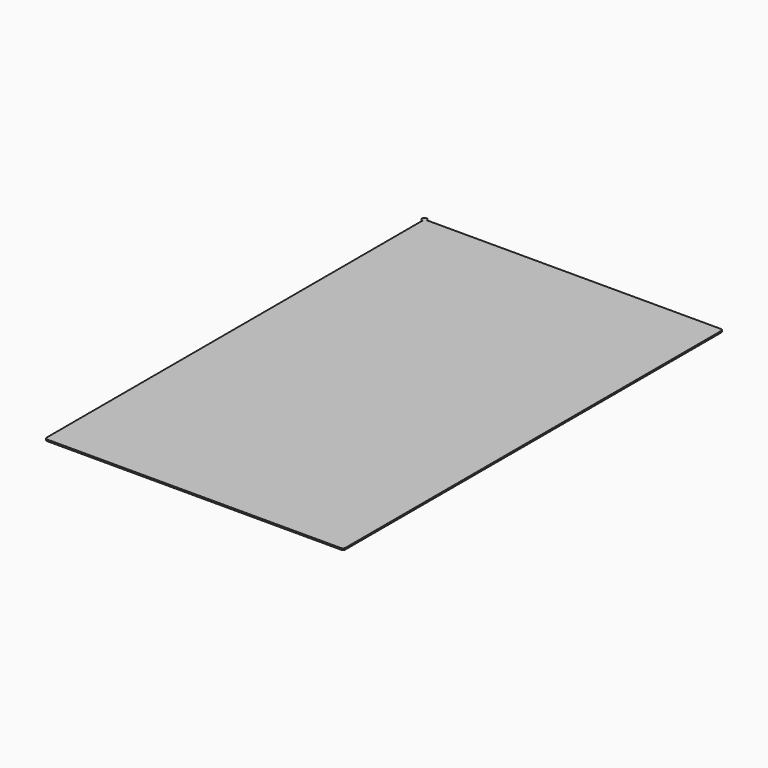
from build123d import *

# Parameters (mm, degrees)
CYLINDER_R     = 0.5
CYLINDER_DEPTH = 0.3
BOX003_W       = 60.4
BOX003_H       = 96
BOX003_DEPTH   = 0.3
FILLET001_R    = 0.5
FILLET002_R    = 0.5
FILLET003_R    = 0.5
FILLET004_R    = 0.5


with BuildPart() as cylinder:
    # Cylinder → Cylinder (new body)
    with BuildSketch(Plane(origin=(-7, -5, 10.6), x_dir=(1, 0, 0), z_dir=(0, 0, 1))):
        Circle(CYLINDER_R)
    extrude(amount=CYLINDER_DEPTH)


with BuildPart() as fusion:
    # Box003 → Box003 (new body)
    with BuildSketch(Plane(origin=(-7, -101, 10.6), x_dir=(1, 0, 0), z_dir=(0, 0, 1))):
        with Locations((30.2, 48)):
            Rectangle(BOX003_W, BOX003_H)
    extrude(amount=BOX003_DEPTH)

    # Fillet001
    fillet001_edges = [fusion.edges().sort_by_distance(p)[0] for p in [
        (-7, -101, 10.75),
    ]]
    fillet(fillet001_edges, radius=FILLET001_R)

    # Fillet002
    fillet002_edges = [fusion.edges().sort_by_distance(p)[0] for p in [
        (53.4, -5, 10.75),
    ]]
    fillet(fillet002_edges, radius=FILLET002_R)

    # Fillet003
    fillet003_edges = [fusion.edges().sort_by_distance(p)[0] for p in [
        (53.4, -101, 10.75),
    ]]
    fillet(fillet003_edges, radius=FILLET003_R)

    # Fillet004
    fillet004_edges = [fusion.edges().sort_by_distance(p)[0] for p in [
        (-7, -5, 10.75),
    ]]
    fillet(fillet004_edges, radius=FILLET004_R)

    # Fusion: union Cylinder
    add(cylinder.part)


solid = fusion.part
